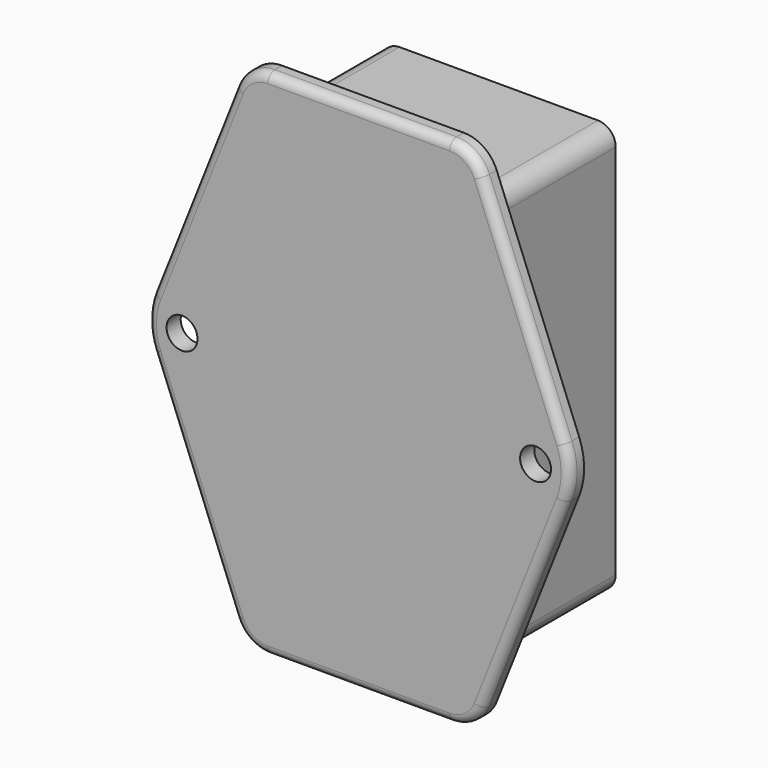
from build123d import *

# Parameters (mm, degrees)
PAD027_DEPTH = 17.8
SKETCH063_R  = 1.75
PAD112_DEPTH = 2
FILLET010_R  = 1


with BuildPart() as part:
    # Sketch062 → Pad027 (new body)
    with BuildSketch(Plane.XZ):
        with BuildLine():
            Line((-13.225, 21.3), (-13.225, -21.3))
            ThreePointArc((-13.225, -21.3), (-12.639214, -22.714214), (-11.225, -23.3))
            Line((-11.225, -23.3), (11.225, -23.3))
            ThreePointArc((11.225, -23.3), (12.639214, -22.714214), (13.225, -21.3))
            Line((13.225, -21.3), (13.225, 21.3))
            ThreePointArc((13.225, 21.3), (12.639214, 22.714214), (11.225, 23.3))
            Line((11.225, 23.3), (-11.225, 23.3))
            ThreePointArc((-11.225, 23.3), (-12.639214, 22.714214), (-13.225, 21.3))
        make_face()
    extrude(amount=-PAD027_DEPTH)

    # Sketch063 → Pad112 (join)
    with BuildSketch(Plane.XZ):
        with BuildLine():
            Line((-10.283179, 29), (10.283179, 29))
            ThreePointArc((14.00149, 26.474503), (12.53062, 28.308928), (10.283179, 29))
            Line((14.00149, 26.474503), (23.330567, 2.949006))
            ThreePointArc((23.330567, -2.949006), (23.893943, 0), (23.330567, 2.949006))
            Line((23.330567, -2.949006), (14.00149, -26.474503))
            ThreePointArc((10.283179, -29), (12.53062, -28.308928), (14.00149, -26.474503))
            Line((10.283179, -29), (-10.283179, -29))
            ThreePointArc((-14.00149, -26.474503), (-12.53062, -28.308928), (-10.283179, -29))
            Line((-14.00149, -26.474503), (-23.330567, -2.949006))
            ThreePointArc((-23.330567, 2.949006), (-23.893943, 0), (-23.330567, -2.949006))
            Line((-23.330567, 2.949006), (-14.00149, 26.474503))
            ThreePointArc((-10.283179, 29), (-12.53062, 28.308928), (-14.00149, 26.474503))
        make_face()
        with Locations((20, 0)):
            Circle(SKETCH063_R, mode=Mode.SUBTRACT)
        with Locations((-20, 0)):
            Circle(SKETCH063_R, mode=Mode.SUBTRACT)
    extrude(amount=PAD112_DEPTH)

    # Fillet010
    fillet010_edges = [part.edges().sort_by_distance(p)[0] for p in [
        (18.666028, -2, -14.711754),
    ]]
    fillet(fillet010_edges, radius=FILLET010_R)


solid = part.part
